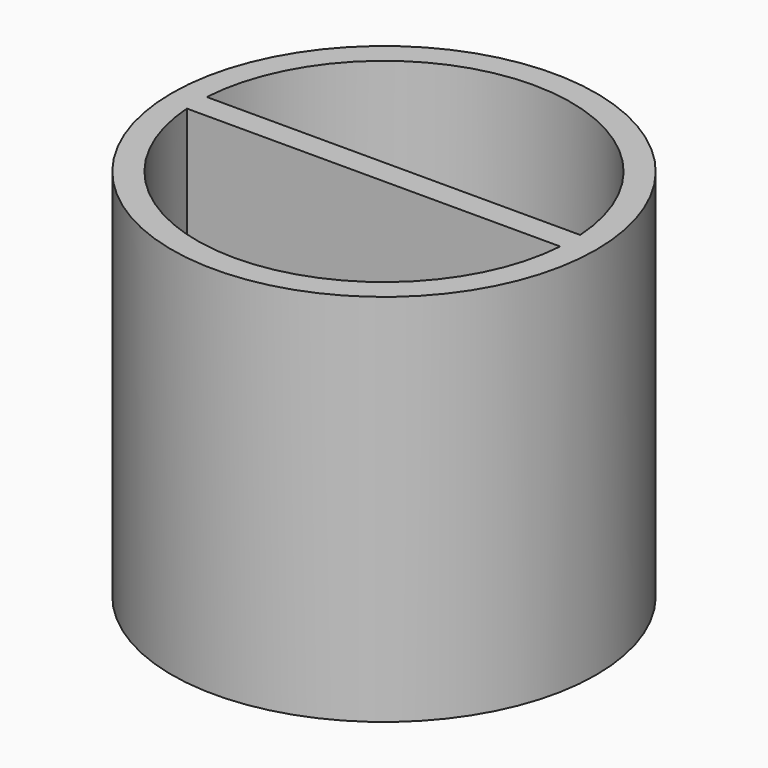
from build123d import *

# Parameters (mm, degrees)
F0_R     = 19.05
F0_R_2   = 21.601346
F1_DEPTH = 38.1
F2_DEPTH = 76.2
F3_W     = 40.27349
F3_H     = 2.54
F4_DEPTH = 38.1


with BuildPart() as f1:
    # F0 (on Top) → F1 (new body)
    with BuildSketch(Plane.XY):
        Circle(F0_R)
        Circle(F0_R_2)
        Circle(F0_R, mode=Mode.SUBTRACT)
    extrude(amount=F1_DEPTH)

    # F0 (on Top) → F2 (cut)
    with BuildSketch(Plane.XY):
        Circle(F0_R)
    extrude(amount=F2_DEPTH, mode=Mode.SUBTRACT)

    # F3 (on face) → F4 (join)
    with BuildSketch(Plane.XY):
        with Locations((-0.148629, -0.063356)):
            Rectangle(F3_W, F3_H)
    extrude(amount=F4_DEPTH)


solid = f1.part
